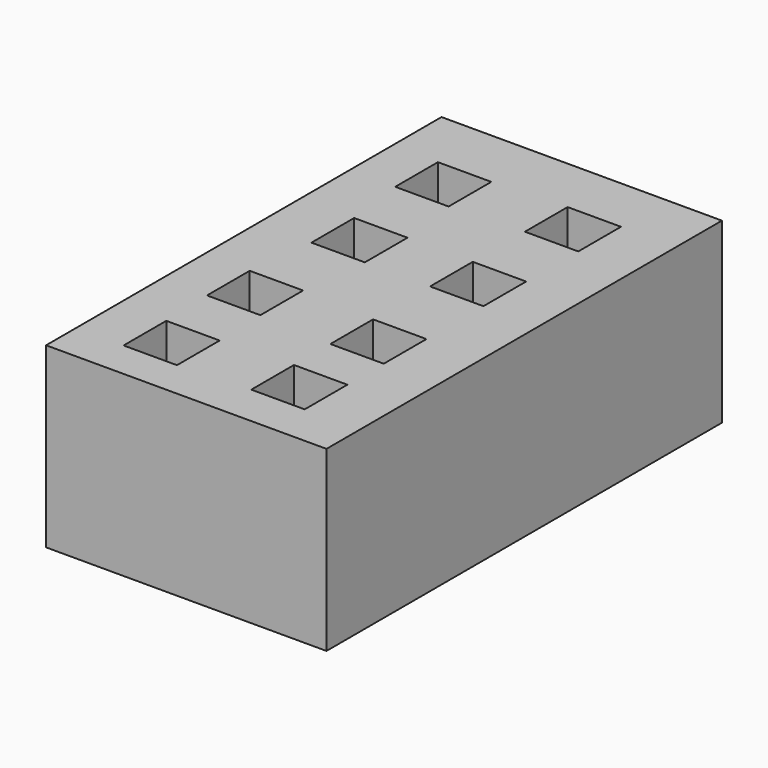
from build123d import *

# Parameters (mm, degrees)
F0_W     = 40.029336
F0_H     = 70.562513
F0_W_2   = 7.62
F0_H_2   = 7.62
F1_DEPTH = 25.4


with BuildPart() as f1:
    # F0 (on Top) → F1 (new body)
    with BuildSketch(Plane.XY):
        with Locations((20.014668, 35.281256)):
            Rectangle(F0_W, F0_H)
        with Locations((10.583331, 9.172223)):
            Rectangle(F0_W_2, F0_H_2, mode=Mode.SUBTRACT)
        with Locations((10.301111, 24.412223)):
            Rectangle(F0_W_2, F0_H_2, mode=Mode.SUBTRACT)
        with Locations((28.363334, 9.736667)):
            Rectangle(F0_W_2, F0_H_2, mode=Mode.SUBTRACT)
        with Locations((28.363334, 23.847779)):
            Rectangle(F0_W_2, F0_H_2, mode=Mode.SUBTRACT)
        with Locations((11.430003, 41.636501)):
            Rectangle(F0_W_2, F0_H_2, mode=Mode.SUBTRACT)
        with Locations((10.301111, 57.996669)):
            Rectangle(F0_W_2, F0_H_2, mode=Mode.SUBTRACT)
        with Locations((28.363334, 41.636501)):
            Rectangle(F0_W_2, F0_H_2, mode=Mode.SUBTRACT)
        with Locations((28.363334, 58.561113)):
            Rectangle(F0_W_2, F0_H_2, mode=Mode.SUBTRACT)
    extrude(amount=F1_DEPTH)


solid = f1.part
